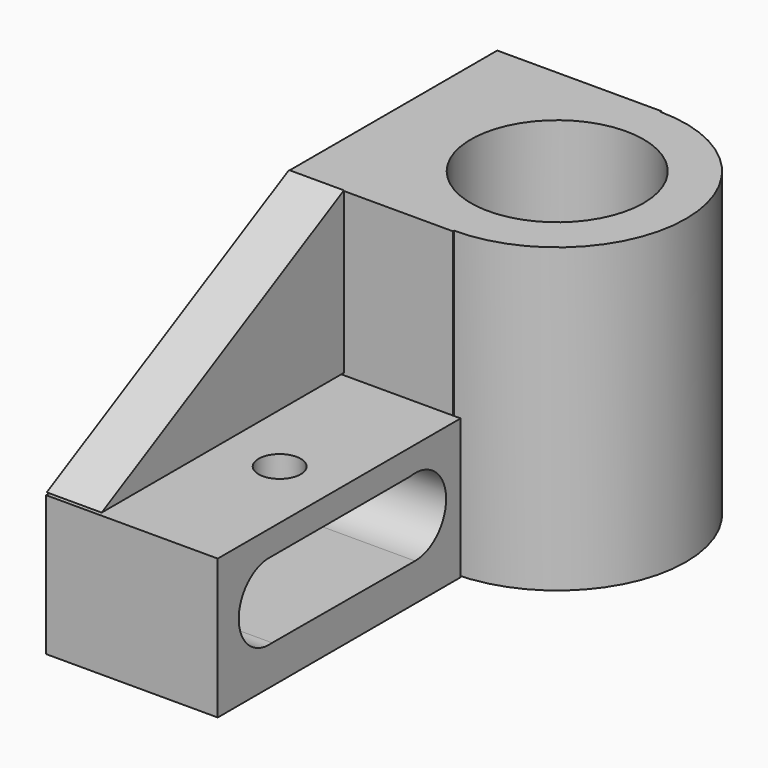
from build123d import *

# Parameters (mm, degrees)
F0_R     = 25.149299
F1_DEPTH = 88
F2_W     = 88.428743
F2_H     = 40.751
F3_DEPTH = 50
F5_DEPTH = 16
F6_R     = 6.130245
F7_DEPTH = 7.424758


with BuildPart() as f1:
    # F0 (on Top) → F1 (new body)
    with BuildSketch(Plane.XY):
        with BuildLine():
            Line((0, 75.826563), (0, 0))
            Line((0, 0), (47.806516, 0))
            Line((47.806516, 0), (47.806516, 0.408337))
            ThreePointArc((47.806516, 0.408337), (85.31146, 37.913281), (47.806516, 75.418226))
            Line((47.806516, 75.418226), (47.806516, 75.826563))
            Line((47.806516, 75.826563), (0, 75.826563))
        make_face()
        with Locations((47.806516, 37.913281)):
            Circle(F0_R, mode=Mode.SUBTRACT)
    extrude(amount=F1_DEPTH)

    # F2 (on Right) → F3 (join)
    with BuildSketch(Plane.YZ):
        with Locations((-44.214371, 20.3755)):
            Rectangle(F2_W, F2_H)
        with BuildLine():
            ThreePointArc((-18.372269, 33.326242), (-5.31868, 23.097255), (-16.589452, 10.93181))
            Line((-16.589452, 10.93181), (-68.615849, 11.094638))
            ThreePointArc((-68.615849, 11.094638), (-80.794064, 22.111374), (-68.798059, 33.326242))
            Line((-68.798059, 33.326242), (-18.372269, 33.326242))
        make_face(mode=Mode.SUBTRACT)
    extrude(amount=F3_DEPTH)

    # F4 (on Right) → F5 (join)
    with BuildSketch(Plane.YZ):
        Polygon((-88.187516, 41.383404), (0, 41.383404), (0, 88.175647), align=None)
    extrude(amount=F5_DEPTH)

    # F6 (on face) → F7 (cut, through all)
    with BuildSketch(Plane.XY.offset(40.751)):
        with Locations((32.661412, -44.214372)):
            Circle(F6_R)
    extrude(amount=-F7_DEPTH, mode=Mode.SUBTRACT)


solid = f1.part
